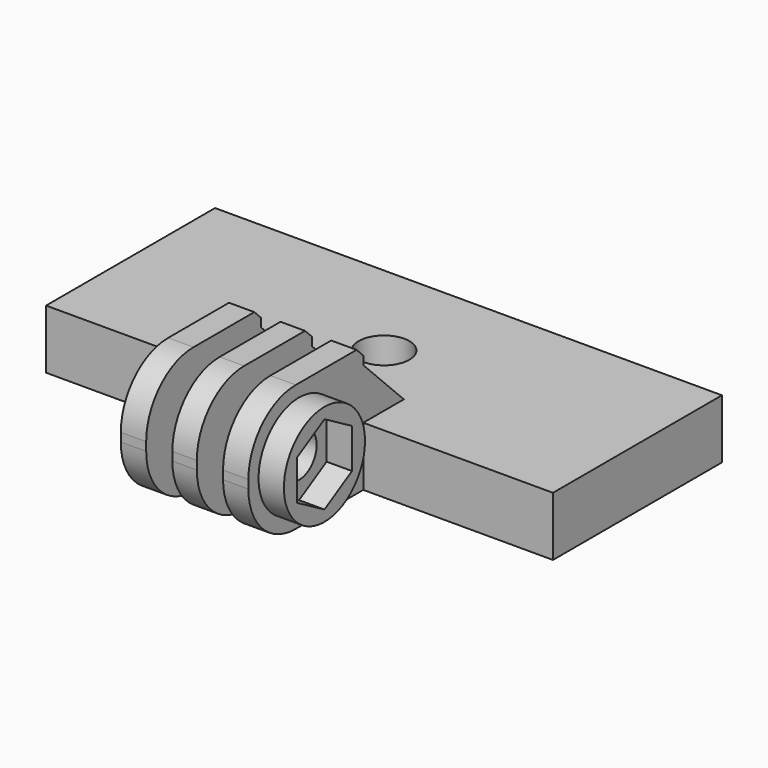
from build123d import *

# Parameters (mm, degrees)
SKETCH_W        = 60
SKETCH_H        = 25
PAD_DEPTH       = 7
SKETCH002_R     = 3
POCKET_DEPTH    = 7.001
SKETCH003_W     = 2.9
SKETCH003_H     = 15
SKETCH003_W_2   = 3
PAD001_DEPTH    = 17
SKETCH005_R     = 6
PAD002_DEPTH    = 3
POCKET001_DEPTH = 3
SKETCH007_R     = 2.6
POCKET002_DEPTH = 37.551
FILLET_R        = 7
CHAMFER_SIZE    = 6
CHAMFER001_SIZE = 1


with BuildPart() as part:
    # Sketch → Pad (new body)
    with BuildSketch(Plane.XY):
        Rectangle(SKETCH_W, SKETCH_H)
    extrude(amount=PAD_DEPTH)

    # Sketch002 (on Face6 of Pad) → Pocket (cut, through all)
    with BuildSketch(Plane.XY.offset(7)):
        Circle(SKETCH002_R)
    extrude(amount=-POCKET_DEPTH, mode=Mode.SUBTRACT)

    # Sketch003 (on Face6 of Pocket) → Pad001 (join)
    with BuildSketch(Plane.XZ.offset(12.5)):
        with Locations((0, 7.5)):
            Rectangle(SKETCH003_W, SKETCH003_H)
        with Locations((6.05, 7.5)):
            Rectangle(SKETCH003_W_2, SKETCH003_H)
        with Locations((-6.05, 7.5)):
            Rectangle(SKETCH003_W_2, SKETCH003_H)
    extrude(amount=PAD001_DEPTH)

    # Sketch005 (on Face18 of Pad001) → Pad002 (join)
    with BuildSketch(Plane.YZ.offset(7.55)):
        with Locations((-22, 7.5)):
            Circle(SKETCH005_R)
    extrude(amount=PAD002_DEPTH)

    # Sketch006 (on Face30 of Pad002) → Pocket001 (cut)
    with BuildSketch(Plane.YZ.offset(10.55)):
        Polygon((-17.925, 9.852702), (-22, 12.205405), (-26.075, 9.852702), (-26.075, 5.147298), (-22, 2.794595), (-17.925, 5.147298), align=None)
    extrude(amount=-POCKET001_DEPTH, mode=Mode.SUBTRACT)

    # Sketch007 (on Face37 of Pocket001) → Pocket002 (cut, through all)
    with BuildSketch(Plane.YZ.offset(7.55)):
        with Locations((-22, 7.5)):
            Circle(SKETCH007_R)
    extrude(amount=-POCKET002_DEPTH, mode=Mode.SUBTRACT)

    # Fillet
    fillet_edges = [part.edges().sort_by_distance(p)[0] for p in [
        (0, -29.5, 15),
        (-6.05, -29.5, 15),
        (6.05, -29.5, 15),
        (6.05, -29.5, 0),
        (0, -29.5, 0),
        (-6.05, -29.5, 0),
    ]]
    fillet(fillet_edges, radius=FILLET_R)

    # Chamfer
    chamfer_edges = [part.edges().sort_by_distance(p)[0] for p in [
        (6.05, -12.5, 7),
        (0, -12.5, 7),
        (-6.05, -12.5, 7),
    ]]
    chamfer(chamfer_edges, length=CHAMFER_SIZE)

    # Chamfer001
    chamfer001_edges = [part.edges().sort_by_distance(p)[0] for p in [
        (6.05, -12.5, 15),
        (0, -12.5, 15),
        (-6.05, -12.5, 15),
    ]]
    chamfer(chamfer001_edges, length=CHAMFER001_SIZE)


solid = part.part
